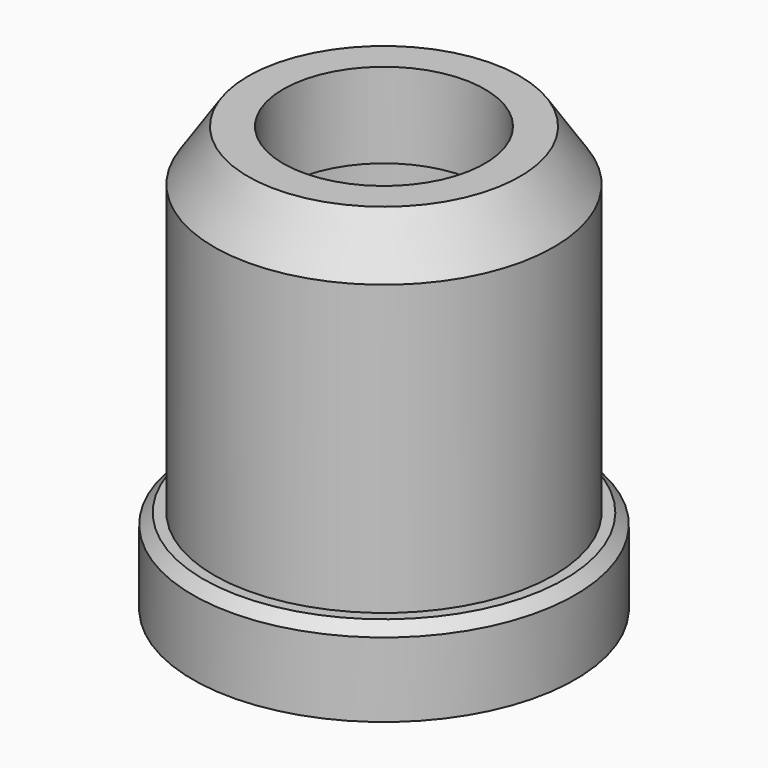
from build123d import *

# Parameters (mm, degrees)
F2_SIZE2 = 3.81
F2_SIZE  = 2.54
F3_SIZE  = 0.7874


with BuildPart() as f1:
    # F0 (on Front) → F1 (revolve)
    with BuildSketch(Plane.XZ):
        Polygon((-14.2875, 0), (-8.89, 0), (-8.89, 25.4), (-7.5311, 25.4), (-7.5311, 31.75), (-12.7, 31.75), (-12.7, 6.35), (-14.2875, 6.35), align=None)
    revolve(axis=Axis((0, 0, 7.331744), (0, 0, -1)))

    # F2
    f2_edges = [f1.edges().sort_by_distance(p)[0] for p in [
        (12.7, 0, 31.75),
    ]]
    chamfer(f2_edges, length=F2_SIZE, length2=F2_SIZE2)

    # F3
    f3_edges = [f1.edges().sort_by_distance(p)[0] for p in [
        (14.2875, 0, 6.35),
    ]]
    chamfer(f3_edges, length=F3_SIZE)


solid = f1.part
